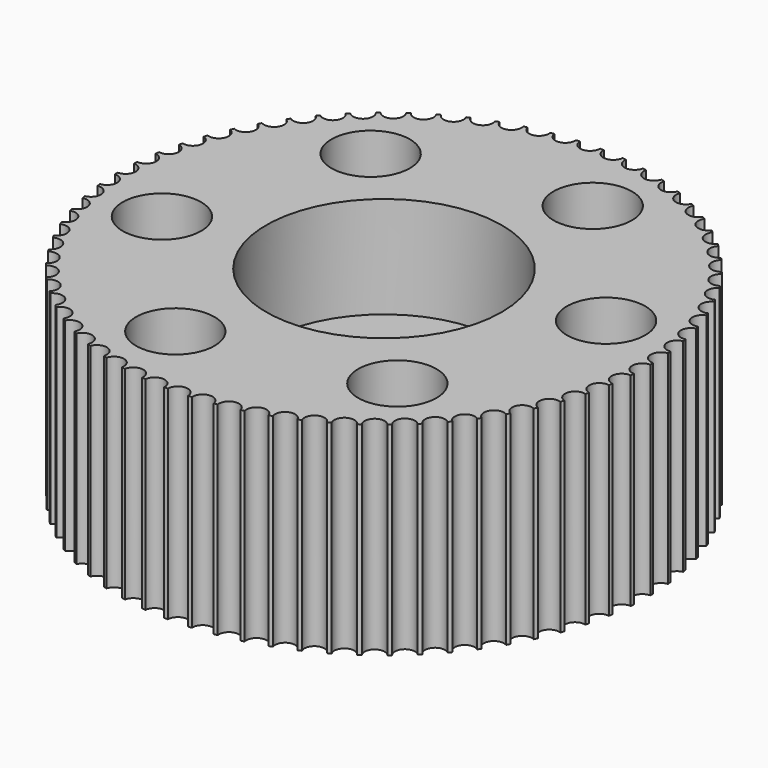
from build123d import *

# Parameters (mm, degrees)
F0_R     = 2.3157461532
F0_R_2   = 6.9575842417
F1_DEPTH = 12
F0_R_3   = 3.5
F2_DEPTH = 6


with BuildPart() as f1:
    # F0 (on Top) → F1 (new body)
    with BuildSketch(Plane.XY):
        with BuildLine():
            ThreePointArc((-13.6675086303, 5.849159104), (-13.3720144007, 5.6343666647), (-13.2591533777, 5.2869259918))
            ThreePointArc((-13.2591533777, 5.2869259918), (-13.4939307844, 4.8152350408), (-14.0118013928, 4.7181638462))
            ThreePointArc((-14.0118013928, 4.7181638462), (-14.0390685085, 4.6131755109), (-14.065604543, 4.5080000145))
            ThreePointArc((-14.065604543, 4.5080000145), (-13.7350454919, 4.3001904889), (-13.6061149208, 3.931637924))
            ThreePointArc((-13.6061149208, 3.931637924), (-13.8200889126, 3.4764139181), (-14.3071296508, 3.3506956458))
            ThreePointArc((-14.3071296508, 3.3506956458), (-14.3248759153, 3.2436857572), (-14.3418772646, 3.1365549947))
            ThreePointArc((-14.3418772646, 3.1365549947), (-13.9761237327, 2.9396266956), (-13.8301926131, 2.5507044546))
            ThreePointArc((-13.8301926131, 2.5507044546), (-14.0241229242, 2.1128641544), (-14.4786900996, 1.9622594495))
            ThreePointArc((-14.4786900996, 1.9622594495), (-14.4867726304, 1.8540895883), (-14.4941024098, 1.7458661136))
            ThreePointArc((-14.4941024098, 1.7458661136), (-14.0934107444, 1.5637527273), (-13.9295823126, 1.155244048))
            ThreePointArc((-13.9295823126, 1.155244048), (-14.1042690427, 0.7356692054), (-14.5251014354, 0.5640341289))
            ThreePointArc((-14.5251014354, 0.5640341289), (-14.5234551566, 0.4555752154), (-14.521054351, 0.3471303802))
            ThreePointArc((-14.521054351, 0.3471303802), (-14.0860702567, 0.1837645663), (-13.9034837919, -0.2435078694))
            ThreePointArc((-13.9034837919, -0.2435078694), (-14.0597657948, -0.6439722863), (-14.4459899813, -0.8327226276))
            ThreePointArc((-14.4459899813, -0.8327226276), (-14.434628148, -0.9405973461), (-14.4225160872, -1.0483904078))
            ThreePointArc((-14.4225160872, -1.0483904078), (-13.9542746235, -1.1891136471), (-13.752107181, -1.6342893694))
            ThreePointArc((-13.752107181, -1.6342893694), (-13.8908603749, -2.0148368786), (-14.2419926964, -2.216764956))
            ThreePointArc((-14.2419926964, -2.216764956), (-14.2210067872, -2.3231869357), (-14.1992809905, -2.4294603374))
            ThreePointArc((-14.1992809905, -2.4294603374), (-13.6992032067, -2.543720213), (-13.4766712754, -3.0059026971))
            ThreePointArc((-13.4766712754, -3.0059026971), (-13.5988068793, -3.3657669266), (-13.9147520467, -3.5769493612))
            ThreePointArc((-13.9147520467, -3.5769493612), (-13.8843110279, -3.6810617549), (-13.8531464186, -3.7849598458))
            ThreePointArc((-13.8531464186, -3.7849598458), (-13.3230326428, -3.8690459567), (-13.0793937229, -4.3473044286))
            ThreePointArc((-13.0793937229, -4.3473044286), (-13.1858564216, -4.6857606598), (-13.4669027816, -4.9023244382))
            ThreePointArc((-13.4669027816, -4.9023244382), (-13.4272517464, -5.0032889942), (-13.3868992436, -5.1039752478))
            ThreePointArc((-13.3868992436, -5.1039752478), (-12.8289190706, -5.154323075), (-12.5634731689, -5.6476943859))
            ThreePointArc((-12.5634731689, -5.6476943859), (-12.6552392101, -5.9640610129), (-12.9020507201, -6.1822190462))
            ThreePointArc((-12.9020507201, -6.1822190462), (-12.8535089152, -6.2792228572), (-12.8042934135, -6.3758866071))
            ThreePointArc((-12.8042934135, -6.3758866071), (-12.2209724626, -6.389112028), (-11.9330635023, -6.8966025936))
            ThreePointArc((-11.9330635023, -6.8966025936), (-12.0111387309, -7.1902424961), (-12.2247437187, -7.4063282264))
            ThreePointArc((-12.2247437187, -7.4063282264), (-12.1677019744, -7.4985902747), (-12.1100197281, -7.5904532412))
            ThreePointArc((-12.1100197281, -7.5904532412), (-11.504223269, -7.5633857752), (-11.193240411, -8.0839735772))
            ThreePointArc((-11.193240411, -8.0839735772), (-11.2586582434, -8.3542954035), (-11.4404350553, -8.5647961713))
            ThreePointArc((-11.4404350553, -8.5647961713), (-11.375352638, -8.6515736172), (-11.3096680706, -8.7378961737))
            ThreePointArc((-11.3096680706, -8.7378961737), (-10.6845816428, -8.66761068), (-10.3499605157, -9.2002473237))
            ThreePointArc((-10.3499605157, -9.2002473237), (-10.4037798585, -9.4467066817), (-10.555439522, -9.6482955784))
            ThreePointArc((-10.555439522, -9.6482955784), (-10.4828404371, -9.7288897408), (-10.4096824022, -9.8089768689))
            ThreePointArc((-10.4096824022, -9.8089768689), (-9.7687895734, -9.6928234271), (-9.4100134101, -10.2364362532))
            ThreePointArc((-9.4100134101, -10.2364362532), (-9.4533165279, -10.4585368065), (-9.5768825825, -10.6481027474))
            ThreePointArc((-9.5768825825, -10.6481027474), (-9.4973513551, -10.7218647296), (-9.4173088782, -10.7950716148))
            ThreePointArc((-9.4173088782, -10.7950716148), (-8.7643663172, -10.6307033371), (-8.3809669956, -11.1841975818))
            ThreePointArc((-8.3809669956, -11.1841975818), (-8.4148573312, -11.3814920494), (-8.5126430019, -11.5561678188))
            ThreePointArc((-8.5126430019, -11.5561678188), (-8.4268199708, -11.6225037328), (-8.3405375066, -11.6882409562))
            ThreePointArc((-8.3405375066, -11.6882409562), (-7.6795475631, -11.473639493), (-7.271106549, -12.0359004925))
            ThreePointArc((-7.271106549, -12.0359004925), (-7.2967065012, -12.2079915497), (-7.3712894115, -12.3651795868))
            ThreePointArc((-7.3712894115, -12.3651795868), (-7.2798655732, -12.4235553347), (-7.1880378176, -12.4812936189))
            ThreePointArc((-7.1880378176, -12.4812936189), (-6.5232188242, -12.2147921387), (-6.089368014, -12.7846875742))
            ThreePointArc((-6.089368014, -12.7846875742), (-6.1078166773, -12.9312286525), (-6.1620113193, -13.0686243642))
            ThreePointArc((-6.1620113193, -13.0686243642), (-6.0657227648, -13.1185699388), (-5.9690890609, -13.1678444091))
            ThreePointArc((-5.9690890609, -13.1678444091), (-5.3048435924, -12.8481478558), (-4.8452660543, -13.4245300337))
            ThreePointArc((-4.8452660543, -13.4245300337), (-4.8577169252, -13.5452260189), (-4.8945451215, -13.6608384272))
            ThreePointArc((-4.8945451215, -13.6608384272), (-4.7941671096, -13.7019516961), (-4.6935054951, -13.7423656235))
            ThreePointArc((-4.6935054951, -13.7423656235), (-4.034386835, -13.3685680724), (-3.5488174475, -13.9502762357))
            ThreePointArc((-3.5488174475, -13.9502762357), (-3.5564361011, -14.0448840621), (-3.5790957107, -14.1370536165))
            ThreePointArc((-3.5790957107, -14.1370536165), (-3.4754364261, -14.1690035599), (-3.3715573692, -14.2002315551))
            ThreePointArc((-3.3715573692, -14.2002315551), (-2.7222344497, -13.771830515), (-2.2104604354, -14.3576931809))
            ThreePointArc((-2.2104604354, -14.3576931809), (-2.2144221782, -14.4260223209), (-2.226254312, -14.4934357274))
            ThreePointArc((-2.226254312, -14.4934357274), (-2.1201483584, -14.5159651031), (-2.0138882321, -14.5377557367))
            ThreePointArc((-2.0138882321, -14.5377557367), (-1.3791093275, -14.0546632686), (-0.8409706818, -14.6435005877))
            ThreePointArc((-0.8409706818, -14.6435005877), (-0.8424581848, -14.6854134355), (-0.8469132089, -14.7271153807))
            ThreePointArc((-0.8469132089, -14.7271153807), (-0.739214889, -14.7400427953), (-0.6314292374, -14.752220622))
            ThreePointArc((-0.6314292374, -14.752220622), (-0.0159847, -14.2147711706), (0.5486254871, -14.8053973028))
            ThreePointArc((0.5486254871, -14.8053973028), (0.54842457, -14.8208094515), (0.547821955, -14.8362111251))
            ThreePointArc((0.547821955, -14.8362111251), (0.6562455177, -14.8394324948), (0.7646888679, -14.8418994658))
            ThreePointArc((0.7646888679, -14.8418994658), (1.3448849276, -14.2509572062), (1.9467215924, -14.819844586))
            ThreePointArc((1.9467215924, -14.819844586), (2.054997435, -14.8133339742), (2.1632253618, -14.8060702269))
            ThreePointArc((2.1632253618, -14.8060702269), (2.688114067, -14.1654985532), (3.3385225858, -14.678147537))
            ThreePointArc((3.3385225858, -14.678147537), (3.445778935, -14.6619573633), (3.5529200507, -14.6450213811))
            ThreePointArc((3.5529200507, -14.6450213811), (4.0182753061, -13.9599777999), (4.7120189721, -14.4122608394))
            ThreePointArc((4.7120189721, -14.4122608394), (4.8173922628, -14.3865214576), (4.9225839301, -14.3600495992))
            ThreePointArc((4.9225839301, -14.3600495992), (5.3246589689, -13.6360496786), (6.0561521659, -14.0243252567))
            ThreePointArc((6.0561521659, -14.0243252567), (6.1587939943, -13.9892439052), (6.2611892718, -13.9534493063))
            ThreePointArc((6.2611892718, -13.9534493063), (6.5967468221, -13.1963222679), (7.3600999971, -13.5174642181))
            ThreePointArc((7.3600999971, -13.5174642181), (7.4591839515, -13.4733233511), (7.5579584126, -13.4284942089))
            ThreePointArc((7.5579584126, -13.4284942089), (7.8242967625, -12.6443359945), (8.6133638445, -12.8957586705))
            ThreePointArc((8.6133638445, -12.8957586705), (8.7080921592, -12.8429136845), (8.8024505301, -12.7894109368))
            ThreePointArc((8.8024505301, -12.7894109368), (8.9974252796, -11.9845351272), (9.8058531645, -12.1642142216))
            ThreePointArc((9.8058531645, -12.1642142216), (9.8954631428, -12.1030905933), (9.9846457053, -12.0413450128))
            ThreePointArc((9.9846457053, -12.0413450128), (10.1066870325, -11.2222319947), (10.9279667342, -11.328720837))
            ThreePointArc((10.9279667342, -11.328720837), (11.0117368893, -11.2598106979), (11.0950255978, -11.1903194237))
            ThreePointArc((11.0950255978, -11.1903194237), (11.1431508977, -10.3635642136), (11.9706699549, -10.3960054182))
            ThreePointArc((11.9706699549, -10.3960054182), (12.0479258188, -10.3198635923), (12.1246500817, -10.2431861272))
            ThreePointArc((12.1246500817, -10.2431861272), (12.0984718776, -9.4154452719), (12.9255675936, -9.3735776414))
            ThreePointArc((12.9255675936, -9.3735776414), (12.9956871474, -9.2908171779), (13.0652292259, -9.2075708838))
            ThreePointArc((13.0652292259, -9.2075708838), (12.9649582894, -8.385508866), (13.7849713757, -8.2696694938))
            ThreePointArc((13.7849713757, -8.2696694938), (13.8473900581, -8.1809567313), (13.9091900404, -8.0918118585))
            ThreePointArc((13.9091900404, -8.0918118585), (13.735633694, -7.2820474381), (14.5419618875, -7.0931689948))
            ThreePointArc((14.5419618875, -7.0931689948), (14.5961771398, -6.9992181962), (14.6497374488, -6.9048924868))
            ThreePointArc((14.6497374488, -6.9048924868), (14.4042930662, -6.1139454108), (15.1904442863, -5.8535486346))
            ThreePointArc((15.1904442863, -5.8535486346), (15.2360195993, -5.7551162365), (15.2809089988, -5.6563691456))
            ThreePointArc((15.2809089988, -5.6563691456), (14.9655527539, -4.8906076549), (15.7251973733, -4.5607891075))
            ThreePointArc((15.7251973733, -4.5607891075), (15.7617658014, -4.4586676297), (15.7976228683, -4.3562942108))
            ThreePointArc((15.7976228683, -4.3562942108), (15.4148938241, -3.6218837666), (16.1419156309, -3.225298953))
            ThreePointArc((16.1419156309, -3.225298953), (16.1691827466, -3.1203106177), (16.195718781, -3.0151351213))
            ThreePointArc((16.195718781, -3.0151351213), (15.7486984467, -2.3179887646), (16.4372438889, -1.8578307526))
            ThreePointArc((16.4372438889, -1.8578307526), (16.4549901533, -1.750820864), (16.4719915027, -1.6436901015))
            ThreePointArc((16.4719915027, -1.6436901015), (15.9642790232, -0.989420845), (16.6088043377, -0.4693945562))
            ThreePointArc((16.6088043377, -0.4693945562), (16.6168868684, -0.3612246951), (16.6242166478, -0.2530012204))
            ThreePointArc((16.6242166478, -0.2530012204), (16.0598998255, 0.3531231448), (16.6552156734, 0.9288307643))
            ThreePointArc((16.6552156734, 0.9288307643), (16.6535693947, 1.0372896778), (16.6511685891, 1.145734513))
            ThreePointArc((16.6511685891, 1.145734513), (16.0347909712, 1.6988338297), (16.5761042194, 2.3255875208))
            ThreePointArc((16.5761042194, 2.3255875208), (16.564742386, 2.4334622393), (16.5526303253, 2.541255301))
            ThreePointArc((16.5526303253, 2.541255301), (15.889154622, 3.0368763387), (16.3721069344, 3.7096298492))
            ThreePointArc((16.3721069344, 3.7096298492), (16.3511210253, 3.8160518289), (16.3293952286, 3.9223252306))
            ThreePointArc((16.3293952286, 3.9223252306), (15.6241633561, 4.3564775403), (16.0448662848, 5.0698142544))
            ThreePointArc((16.0448662848, 5.0698142544), (16.014425266, 5.1739266481), (15.9832606567, 5.277824739))
            ThreePointArc((15.9832606567, 5.277824739), (15.2419507274, 5.6470127814), (15.5970170197, 6.3951893314))
            ThreePointArc((15.5970170197, 6.3951893314), (15.5573659845, 6.4961538874), (15.5170134816, 6.596840141))
            ThreePointArc((15.5170134816, 6.596840141), (14.7455940872, 6.8980914312), (15.0321649581, 7.6750839394))
            ThreePointArc((15.0321649581, 7.6750839394), (14.9836231533, 7.7720877504), (14.9344076516, 7.8687515003))
            ThreePointArc((14.9344076516, 7.8687515003), (14.1390898074, 8.0996405399), (14.3548579568, 8.8991931196))
            ThreePointArc((14.3548579568, 8.8991931196), (14.2978162124, 8.9914551679), (14.2401339661, 9.0833181344))
            ThreePointArc((14.2401339661, 9.0833181344), (13.4273211038, 9.2419859407), (13.5705492934, 10.0576610645))
            ThreePointArc((13.5705492934, 10.0576610645), (13.5054668761, 10.1444385104), (13.4397823087, 10.2307610669))
            ThreePointArc((13.4397823087, 10.2307610669), (12.6160187195, 10.3159301401), (12.6855537601, 11.1411604716))
            ThreePointArc((12.6855537601, 11.1411604716), (12.6129546752, 11.221754634), (12.5397966402, 11.3018417621))
            ThreePointArc((12.5397966402, 11.3018417621), (11.7117147842, 11.3128263708), (11.7069968206, 12.1409676406))
            ThreePointArc((11.7069968206, 12.1409676406), (11.6274655932, 12.2147296228), (11.5474231162, 12.287936508))
            ThreePointArc((11.5474231162, 12.287936508), (10.7216902216, 12.2246482105), (10.64275724, 13.049032712))
            ThreePointArc((10.64275724, 13.049032712), (10.5569342088, 13.115368626), (10.4706517447, 13.1811058494))
            ThreePointArc((10.4706517447, 13.1811058494), (9.6539161272, 13.044054206), (9.5014036496, 13.85804448))
            ThreePointArc((9.5014036496, 13.85804448), (9.4099798112, 13.9164202279), (9.3181520557, 13.9741585121))
            ThreePointArc((9.3181520557, 13.9741585121), (8.5169895902, 13.764446982), (8.2921255574, 14.5614892574))
            ThreePointArc((8.2921255574, 14.5614892574), (8.1958370029, 14.611434832), (8.099203299, 14.6607093023))
            ThreePointArc((8.099203299, 14.6607093023), (7.3200644747, 14.3800263595), (7.0246593596, 15.1537033204))
            ThreePointArc((7.0246593596, 15.1537033204), (6.9242813477, 15.1948165893), (6.8236197332, 15.2352305167))
            ThreePointArc((6.8236197332, 15.2352305167), (6.0727777178, 14.8858360551), (5.7092099488, 15.6299185097))
            ThreePointArc((5.7092099488, 15.6299185097), (5.6055506642, 15.6618684531), (5.5016716073, 15.6930964483))
            ThreePointArc((5.5016716073, 15.6930964483), (4.7851717391, 15.2778035868), (4.3563685501, 15.9863006206))
            ThreePointArc((4.3563685501, 15.9863006206), (4.2502625965, 16.0088299963), (4.1440024701, 16.0306206299))
            ThreePointArc((4.1440024701, 16.0306206299), (3.4676135849, 15.5527730623), (2.977027447, 16.2199802739))
            ThreePointArc((2.977027447, 16.2199802739), (2.8693291271, 16.2329076885), (2.7615434755, 16.2450855152))
            ThreePointArc((2.7615434755, 16.2450855152), (2.1307114587, 15.7085305892), (1.582292283, 16.3290760183))
            ThreePointArc((1.582292283, 16.3290760183), (1.4738687204, 16.332297388), (1.3654253701, 16.334764359))
            ThreePointArc((1.3654253701, 16.334764359), (0.7852293104, 15.7438220994), (0.1833926457, 16.3127094792))
            ThreePointArc((0.1833926457, 16.3127094792), (0.0751168031, 16.3061988674), (-0.0331111237, 16.2989351201))
            ThreePointArc((-0.0331111237, 16.2989351201), (-0.0313384495, 16.2725528547), (-0.0307471639, 16.2461177136))
            ThreePointArc((-0.0307471639, 16.2461177136), (-0.5843437416, 15.6560908778), (-1.2084083478, 16.1710124302))
            ThreePointArc((-1.2084083478, 16.1710124302), (-1.3156646969, 16.1548222565), (-1.4228058126, 16.1378862743))
            ThreePointArc((-1.4228058126, 16.1378862743), (-1.4157087766, 16.0854035797), (-1.4133367535, 16.0324963528))
            ThreePointArc((-1.4133367535, 16.0324963528), (-1.9404997671, 15.4447518505), (-2.581904734, 15.9051257326))
            ThreePointArc((-2.581904734, 15.9051257326), (-2.6872780247, 15.8793863508), (-2.792469692, 15.8529144924))
            ThreePointArc((-2.792469692, 15.8529144924), (-2.7765502058, 15.7750733582), (-2.7712115727, 15.6958005936))
            ThreePointArc((-2.7712115727, 15.6958005936), (-3.2720700356, 15.1115220638), (-3.9260379279, 15.5171901499))
            ThreePointArc((-3.9260379279, 15.5171901499), (-4.0286797562, 15.4821087984), (-4.1310750337, 15.4463141995))
            ThreePointArc((-4.1310750337, 15.4463141995), (-4.1029239533, 15.3442199696), (-4.0934388119, 15.238741312))
            ThreePointArc((-4.0934388119, 15.238741312), (-4.5681747113, 14.6591054142), (-5.2299857591, 15.0103291113))
            ThreePointArc((-5.2299857591, 15.0103291113), (-5.3290697135, 14.9661882443), (-5.4278441746, 14.9213591021))
            ThreePointArc((-5.4278441746, 14.9213591021), (-5.3841758722, 14.7964706114), (-5.3693726749, 14.6649984809))
            ThreePointArc((-5.3693726749, 14.6649984809), (-5.8182206054, 14.0911725244), (-6.4832496064, 14.3886235637))
            ThreePointArc((-6.4832496064, 14.3886235637), (-6.5779779212, 14.3357785777), (-6.672336292, 14.28227583))
            ThreePointArc((-6.672336292, 14.28227583), (-6.6100221835, 14.1363923761), (-6.5887400924, 13.97919154))
            ThreePointArc((-6.5887400924, 13.97919154), (-7.0119867834, 13.412331134), (-7.6757389264, 13.6570791148))
            ThreePointArc((-7.6757389264, 13.6570791148), (-7.7653489048, 13.5959554865), (-7.8545314672, 13.534209906))
            ThreePointArc((-7.8545314672, 13.534209906), (-7.7706322099, 13.3694551637), (-7.7417234349, 13.1868422036))
            ThreePointArc((-7.7417234349, 13.1868422036), (-8.1397071735, 12.6280889295), (-8.7978524961, 12.8215857302))
            ThreePointArc((-8.7978524961, 12.8215857302), (-8.8816226513, 12.7526755911), (-8.9649113597, 12.6831843169))
            ThreePointArc((-8.9649113597, 12.6831843169), (-8.8567074486, 12.5019873286), (-8.8190395586, 12.2943300027))
            ThreePointArc((-8.8190395586, 12.2943300027), (-9.1921495079, 11.7448091153), (-9.8405557169, 11.8888703114))
            ThreePointArc((-9.8405557169, 11.8888703114), (-9.9178115808, 11.8127284855), (-9.9945358436, 11.7360510204))
            ThreePointArc((-9.9945358436, 11.7360510204), (-9.8595563438, 11.5411244183), (-9.8120145474, 11.3088409208))
            ThreePointArc((-9.8120145474, 11.3088409208), (-10.1606899632, 10.7696590819), (-10.7954533555, 10.8664425346))
            ThreePointArc((-10.7954533555, 10.8664425346), (-10.8655729093, 10.7836820711), (-10.9351149879, 10.700435777))
            ThreePointArc((-10.9351149879, 10.700435777), (-10.77116416, 10.4947514174), (-10.7126535506, 10.2383095364))
            ThreePointArc((-10.7126535506, 10.2383095364), (-11.0373828964, 9.7105525866), (-11.6548571377, 9.762534387))
            ThreePointArc((-11.6548571377, 9.762534387), (-11.71727582, 9.6738216245), (-11.7790758023, 9.5846767517))
            ThreePointArc((-11.7790758023, 9.5846767517), (-11.5842573918, 9.3714389635), (-11.5137051524, 9.0913551388))
            ThreePointArc((-11.5137051524, 9.0913551388), (-11.8150251162, 8.5760859103), (-12.4118476494, 8.586033888))
            ThreePointArc((-12.4118476494, 8.586033888), (-12.4660629018, 8.4920830894), (-12.5196232107, 8.39775738))
            ThreePointArc((-12.5196232107, 8.39775738), (-12.2923621925, 8.1803740474), (-12.2087197565, 7.8772123304))
            ThreePointArc((-12.2087197565, 7.8772123304), (-12.4872141694, 7.3754685069), (-13.0603300482, 7.3464135278))
            ThreePointArc((-13.0603300482, 7.3464135278), (-13.1059053613, 7.2479811297), (-13.1507947608, 7.1492340388))
            ThreePointArc((-13.1507947608, 7.1492340388), (-12.8898563513, 6.931285757), (-12.7921015139, 6.6056566753))
            ThreePointArc((-12.7921015139, 6.6056566753), (-13.0484001746, 6.118448702), (-13.5950831352, 6.0536540007))
            ThreePointArc((-13.5950831352, 6.0536540007), (-13.6316515633, 5.9515325229), (-13.6675086303, 5.849159104))
        make_face()
        with Locations((-2.5361927746, -10.1643417517)):
            Circle(F0_R, mode=Mode.SUBTRACT)
        with Locations((-10.1845754585, -1.5901807593)):
            Circle(F0_R, mode=Mode.SUBTRACT)
        with Locations((8.7134398029, -7.8277285458)):
            Circle(F0_R, mode=Mode.SUBTRACT)
        with Locations((-6.5833255649, 9.320593439)):
            Circle(F0_R, mode=Mode.SUBTRACT)
        with Locations((1.065057119, 0.7464324466)):
            Circle(F0_R_2, mode=Mode.SUBTRACT)
        with Locations((12.3146896966, 3.0830456525)):
            Circle(F0_R, mode=Mode.SUBTRACT)
        with Locations((4.6663070127, 11.6572066449)):
            Circle(F0_R, mode=Mode.SUBTRACT)
    extrude(amount=F1_DEPTH)

    # F0 (on Top) → F2 (join)
    with BuildSketch(Plane.XY):
        with Locations((1.065057119, 0.7464324466)):
            Circle(F0_R_2)
        with Locations((1.065057119, 0.7464324466)):
            Circle(F0_R_3, mode=Mode.SUBTRACT)
    extrude(amount=F2_DEPTH)


solid = f1.part
